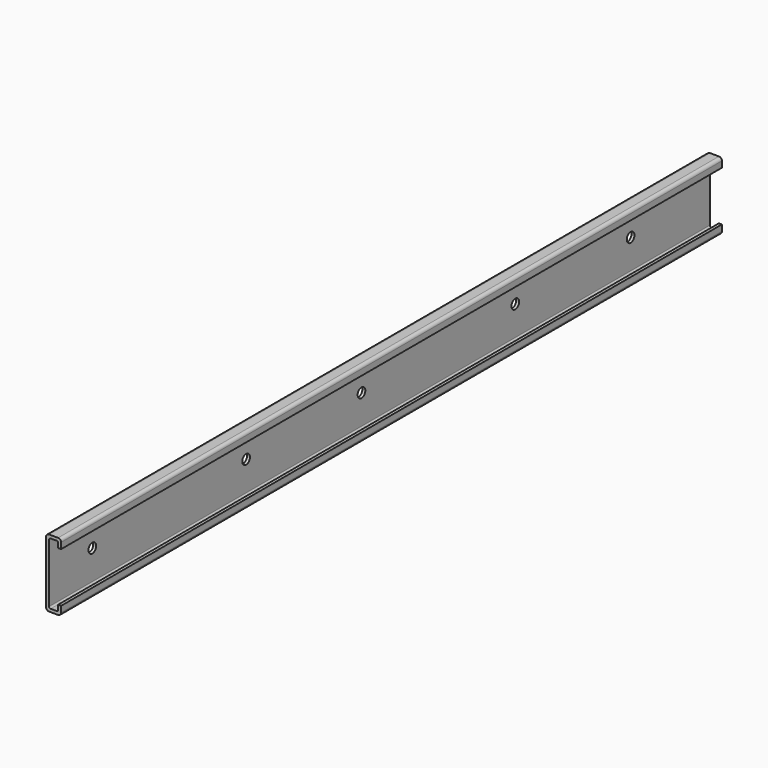
from build123d import *

# Parameters (mm, degrees)
F1_DEPTH = 550
F2_R     = 3.2
F3_DEPTH = 2


with BuildPart() as f1:
    # F0 (on Front) → F1 (new body)
    with BuildSketch(Plane.XZ):
        with BuildLine():
            ThreePointArc((0, 2), (0.585786, 0.585786), (2, 0))
            Line((2, 0), (8, 0))
            ThreePointArc((8, 0), (9.414214, 0.585786), (10, 2))
            Line((10, 2), (10, 6))
            Line((10, 6), (8, 6))
            Line((8, 6), (8, 3))
            ThreePointArc((8, 3), (7.707107, 2.292893), (7, 2))
            Line((7, 2), (3, 2))
            ThreePointArc((3, 2), (2.292893, 2.292893), (2, 3))
            Line((2, 3), (2, 42.2))
            ThreePointArc((2, 42.2), (2.292893, 42.907107), (3, 43.2))
            Line((3, 43.2), (7, 43.2))
            ThreePointArc((7, 43.2), (7.707107, 42.907107), (8, 42.2))
            Line((8, 42.2), (8, 39.2))
            Line((8, 39.2), (10, 39.2))
            Line((10, 39.2), (10, 43.2))
            ThreePointArc((10, 43.2), (9.414214, 44.614214), (8, 45.2))
            Line((8, 45.2), (2, 45.2))
            ThreePointArc((2, 45.2), (0.585786, 44.614214), (0, 43.2))
            Line((0, 43.2), (0, 2))
        make_face()
    extrude(amount=-F1_DEPTH)

    # F2 (on face) → F3 (cut)
    with BuildSketch(Plane(origin=(0, 0, 0), x_dir=(0, -1, 0), z_dir=(-1, 0, 0))):
        with Locations((-36, 22.6)):
            Circle(F2_R)
        with Locations((-164, 22.6)):
            Circle(F2_R)
        with Locations((-260, 22.6)):
            Circle(F2_R)
        with Locations((-388, 22.6)):
            Circle(F2_R)
        with Locations((-484, 22.6)):
            Circle(F2_R)
    extrude(amount=-F3_DEPTH, mode=Mode.SUBTRACT)


solid = f1.part
